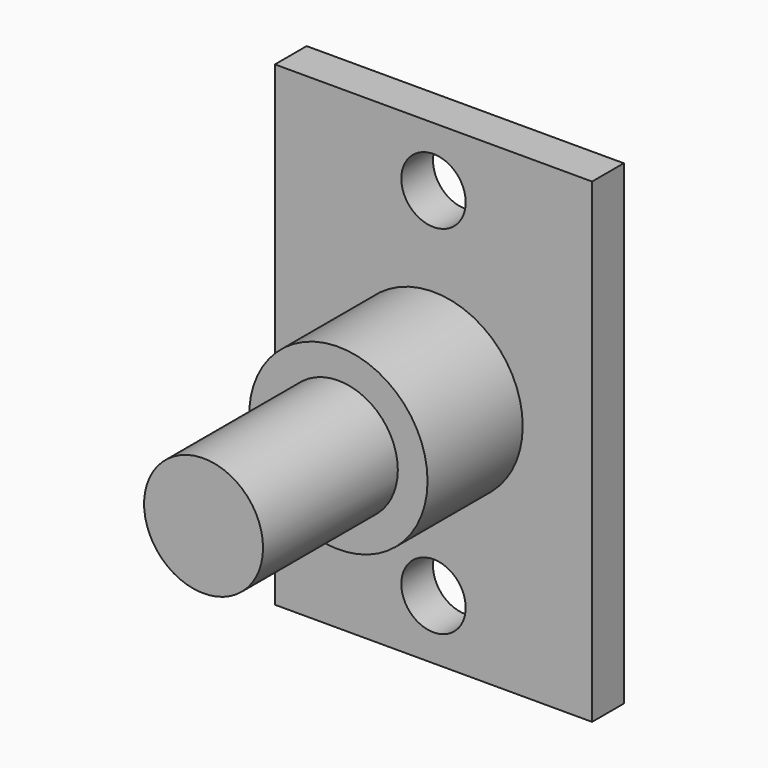
from build123d import *

# Parameters (mm, degrees)
F0_W     = 50.8
F0_H     = 76.2
F1_DEPTH = 6.35
F2_D     = 10.3124
F3_R     = 14.2875
F4_DEPTH = 19.05
F5_R     = 9.525
F6_DEPTH = 26.9875


with BuildPart() as f1:
    # F0 (on Front) → F1 (new body)
    with BuildSketch(Plane.XZ):
        Rectangle(F0_W, F0_H)
    extrude(amount=F1_DEPTH)

    # F2 (through all)
    with Locations(Plane(origin=(0, 0, 0), x_dir=(1, 0, 0), z_dir=(0, 1, 0))):
        with Locations((0, -28.575), (0, 28.575)):
            Hole(F2_D / 2)

    # F3 (on face) → F4 (join)
    with BuildSketch(Plane.XZ.offset(6.35)):
        Circle(F3_R)
    extrude(amount=F4_DEPTH)

    # F5 (on face) → F6 (join)
    with BuildSketch(Plane.XZ.offset(25.4)):
        Circle(F5_R)
    extrude(amount=F6_DEPTH)


solid = f1.part
